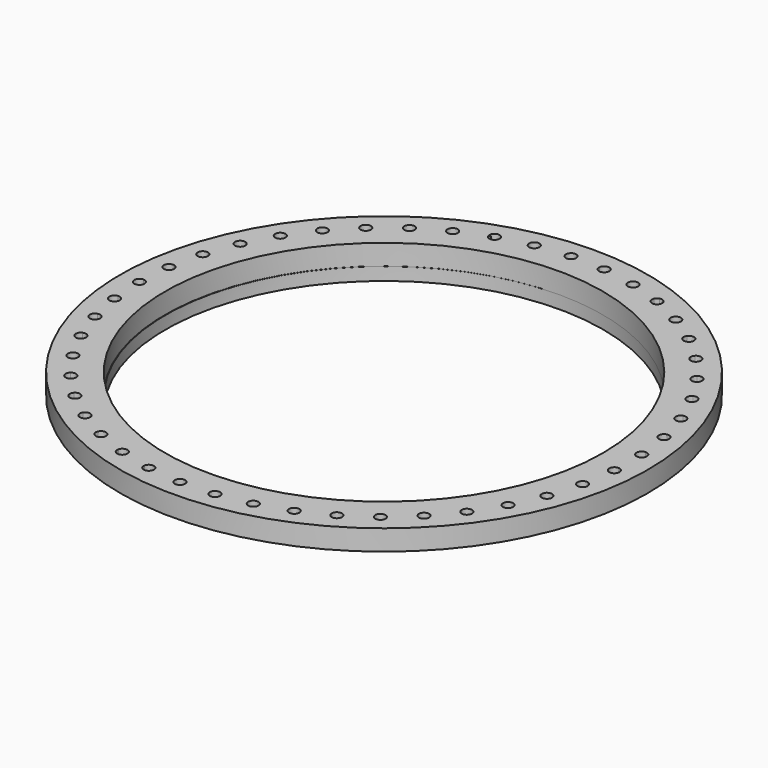
from build123d import *

# Parameters (mm, degrees)
F0_R     = 425
F1_DEPTH = 40
F2_W     = 25
F2_H     = 25


with BuildPart() as f1:
    # F0 (on Top) → F1 (new body)
    with BuildSketch(Plane.XY):
        with BuildLine():
            Line((-244.5690632574, 450), (-249.1284285052, 450))
            ThreePointArc((-249.1284285052, 450), (-248.9712322177, 449.2740321009), (-248.7605824707, 448.5617352895))
            ThreePointArc((-248.7605824707, 448.5617352895), (-246.6665001226, 449.2857556611), (-244.5690632574, 450))
        make_face()
        with BuildLine():
            ThreePointArc((76.1273747434, 444.0605910089), (78.6749126814, 447.7783927009), (82.5961956316, 450))
            Line((82.5961956316, 450), (59.5690632575, 450))
            ThreePointArc((59.5690632575, 450), (67.8757166201, 447.1069553458), (76.1273747434, 444.0605910089))
        make_face()
        with BuildLine():
            Line((-249.1284285052, 450), (-337.7677108794, 450))
            ThreePointArc((-337.7677108794, 450), (-605, 0), (-337.7677108794, -450))
            Line((-337.7677108794, -450), (-249.1284285052, -450))
            ThreePointArc((-249.1284285052, -450), (-248.9712322177, -449.2740321009), (-248.7605824707, -448.5617352895))
            ThreePointArc((-248.7605824707, -448.5617352895), (-270.4381318726, -440.4123309192), (-291.6927078912, -431.2160306888))
            ThreePointArc((-291.6927078912, -431.2160306888), (-305.1100061927, -435.9151124551), (-309.6675928959, -422.4490934962))
            ThreePointArc((-309.6675928959, -422.4490934962), (-330, -411.3620667976), (-349.7678503255, -399.2971990747))
            ThreePointArc((-349.7678503255, -399.2971990747), (-363.7085581833, -402.0832226892), (-366.3476831499, -388.1139606268))
            ThreePointArc((-366.34768315, -388.1139606268), (-384.9392007797, -374.3051079632), (-402.835566691, -359.6065016745))
            ThreePointArc((-402.835566691, -359.6065016745), (-417.028344084, -360.4252403565), (-417.6976397486, -346.2246309868))
            ThreePointArc((-417.6976397486, -346.2246309868), (-434.1864051609, -329.962725968), (-449.8629542524, -312.9164727655))
            ThreePointArc((-449.8629542524, -312.9164727655), (-464.0315549127, -311.751990698), (-462.7179941963, -297.5964327294))
            ThreePointArc((-462.7179941963, -297.5964327294), (-476.7830723281, -279.1979948389), (-489.9346784035, -260.1358806514))
            ThreePointArc((-489.9346784035, -260.1358806514), (-503.8033266359, -257.0108431531), (-500.5324765038, -243.1758584198))
            ThreePointArc((-500.5324765038, -243.1758584198), (-511.900106608, -222.9989923233), (-522.2707886148, -202.2920395206))
            ThreePointArc((-522.2707886148, -202.2920395206), (-535.5695469567, -197.2672718918), (-530.4050707861, -184.0221426345))
            ThreePointArc((-530.4050707861, -184.0221426345), (-538.8539948733, -162.4595680797), (-546.2418992828, -140.5108139442))
            ThreePointArc((-546.2418992828, -140.5108139442), (-558.7119225301, -133.6841175712), (-551.7543409753, -121.2866451649))
            ThreePointArc((-551.7543409753, -121.2866451649), (-557.1201103486, -98.7580531384), (-561.3814400049, -75.9947052032))
            ThreePointArc((-561.3814400049, -75.9947052032), (-572.7800133397, -67.4989539656), (-564.1647478114, -56.1904411087))
            ThreePointArc((-564.1647478114, -56.1904411087), (-566.3429238734, -33.1343250285), (-567.3947368421, -9.999445968))
            ThreePointArc((-567.3947368421, -9.999445968), (-577.5, 0), (-567.3947368421, 9.999445968))
            ThreePointArc((-567.3947368421, 9.999445968), (-566.3429238734, 33.1343250285), (-564.1647478114, 56.1904411087))
            ThreePointArc((-564.1647478114, 56.1904411087), (-572.7800133397, 67.4989539656), (-561.3814400049, 75.9947052032))
            ThreePointArc((-561.3814400049, 75.9947052032), (-557.1201103486, 98.7580531384), (-551.7543409753, 121.2866451649))
            ThreePointArc((-551.7543409753, 121.2866451649), (-558.7119225301, 133.6841175712), (-546.2418992828, 140.5108139442))
            ThreePointArc((-546.2418992828, 140.5108139442), (-538.8539948733, 162.4595680797), (-530.4050707861, 184.0221426345))
            ThreePointArc((-530.4050707861, 184.0221426345), (-535.5695469567, 197.2672718918), (-522.2707886148, 202.2920395206))
            ThreePointArc((-522.2707886148, 202.2920395206), (-511.900106608, 222.9989923233), (-500.5324765038, 243.1758584198))
            ThreePointArc((-500.5324765038, 243.1758584198), (-503.8033266359, 257.0108431531), (-489.9346784035, 260.1358806514))
            ThreePointArc((-489.9346784035, 260.1358806514), (-476.7830723281, 279.1979948389), (-462.7179941963, 297.5964327294))
            ThreePointArc((-462.7179941963, 297.5964327294), (-464.0315549127, 311.751990698), (-449.8629542524, 312.9164727655))
            ThreePointArc((-449.8629542524, 312.9164727655), (-434.1864051609, 329.962725968), (-417.6976397486, 346.2246309868))
            ThreePointArc((-417.6976397486, 346.2246309868), (-417.028344084, 360.4252403565), (-402.835566691, 359.6065016745))
            ThreePointArc((-402.835566691, 359.6065016745), (-384.9392007797, 374.3051079632), (-366.34768315, 388.1139606268))
            ThreePointArc((-366.3476831499, 388.1139606268), (-363.7085581833, 402.0832226892), (-349.7678503255, 399.2971990747))
            ThreePointArc((-349.7678503255, 399.2971990747), (-330, 411.3620667976), (-309.6675928959, 422.4490934962))
            ThreePointArc((-309.6675928959, 422.4490934962), (-305.1100061927, 435.9151124551), (-291.6927078912, 431.2160306888))
            ThreePointArc((-291.6927078912, 431.2160306888), (-270.4381318726, 440.4123309192), (-248.7605824707, 448.5617352895))
            ThreePointArc((-248.7605824707, 448.5617352895), (-248.9712322177, 449.2740321009), (-249.1284285052, 450))
        make_face()
        with BuildLine():
            ThreePointArc((152.7677108794, 450), (-92.5, 512.5), (-337.7677108794, 450))
            Line((-337.7677108794, 450), (-249.1284285052, 450))
            ThreePointArc((-249.1284285052, 450), (-241.6587675583, 461.4655506183), (-229.7405059762, 454.7417327664))
            ThreePointArc((-229.7405059762, 454.7417327664), (-207.4129004098, 460.8904699811), (-184.8121375514, 465.9436331368))
            ThreePointArc((-184.8121375514, 465.9436331368), (-176.7193661685, 477.6317602109), (-165.1170737211, 469.4164042768))
            ThreePointArc((-165.1170737211, 469.4164042768), (-142.1510200521, 472.3979002999), (-119.0669418782, 474.2564681681))
            ThreePointArc((-119.0669418782, 474.2564681681), (-109.4262559007, 484.7045511043), (-99.0802327267, 474.9544194312))
            ThreePointArc((-99.0802327267, 474.9544194312), (-75.9227390663, 474.7106428341), (-52.8046509008, 473.3384405052))
            ThreePointArc((-52.8046509008, 473.3384405052), (-42.3781878116, 482.3868118905), (-32.8489799479, 472.3979002999))
            ThreePointArc((-32.8489799479, 472.3979002999), (-32.8655774816, 471.8219878093), (-32.9153149872, 471.2479870641))
            ThreePointArc((-32.9153149872, 471.2479870641), (-10.0171156082, 467.7836826808), (12.6850152592, 463.2074185124))
            ThreePointArc((12.6850152592, 463.2074185124), (23.5793369692, 470.8222082858), (32.4129004098, 460.8904699811))
            ThreePointArc((32.4129004098, 460.8904699811), (32.3318101849, 459.6195534323), (32.0898546351, 458.3692486653))
            ThreePointArc((32.089854635, 458.3692486653), (45.892739308, 454.3923961807), (59.5690632575, 450))
            Line((59.5690632575, 450), (82.5961956316, 450))
            ThreePointArc((82.5961956316, 450), (85.4381318726, 450.4123309192), (88.2800681135, 450))
            Line((88.2800681135, 450), (152.7677108794, 450))
        make_face()
        with BuildLine():
            Line((-249.1284285052, -450), (-337.7677108794, -450))
            ThreePointArc((-337.7677108794, -450), (-92.5, -512.5), (152.7677108794, -450))
            Line((152.7677108794, -450), (88.2800681135, -450))
            ThreePointArc((88.2800681135, -450), (85.4381318726, -450.4123309192), (82.5961956316, -450))
            Line((82.5961956316, -450), (59.5690632575, -450))
            ThreePointArc((59.5690632575, -450), (45.892739308, -454.3923961807), (32.089854635, -458.3692486653))
            ThreePointArc((32.0898546351, -458.3692486653), (32.3318101849, -459.6195534323), (32.4129004098, -460.8904699811))
            ThreePointArc((32.4129004098, -460.8904699811), (23.5793369692, -470.8222082858), (12.6850152592, -463.2074185124))
            ThreePointArc((12.6850152592, -463.2074185124), (-10.0171156082, -467.7836826808), (-32.9153149872, -471.2479870641))
            ThreePointArc((-32.9153149872, -471.2479870641), (-32.8655774816, -471.8219878093), (-32.8489799479, -472.3979002999))
            ThreePointArc((-32.8489799479, -472.3979002999), (-42.3781878116, -482.3868118905), (-52.8046509008, -473.3384405052))
            ThreePointArc((-52.8046509008, -473.3384405052), (-75.9227390663, -474.7106428341), (-99.0802327267, -474.9544194312))
            ThreePointArc((-99.0802327267, -474.9544194312), (-109.4262559007, -484.7045511043), (-119.0669418782, -474.2564681681))
            ThreePointArc((-119.0669418782, -474.2564681681), (-142.1510200521, -472.3979002999), (-165.1170737211, -469.4164042768))
            ThreePointArc((-165.1170737211, -469.4164042768), (-176.7193661685, -477.6317602109), (-184.8121375514, -465.9436331368))
            ThreePointArc((-184.8121375514, -465.9436331368), (-207.4129004098, -460.8904699811), (-229.7405059762, -454.7417327664))
            ThreePointArc((-229.7405059762, -454.7417327664), (-241.6587675583, -461.4655506183), (-249.1284285052, -450))
        make_face()
        with BuildLine():
            ThreePointArc((420, 0), (348.1563013425, 261.6835380515), (152.7677108794, 450))
            Line((152.7677108794, 450), (88.2800681135, 450))
            ThreePointArc((88.2800681135, 450), (93.4512262315, 446.3948319677), (95.4381318726, 440.4123309192))
            ThreePointArc((95.4381318726, 440.4123309192), (95.2442250251, 438.45260209), (94.6700244557, 436.5688742286))
            ThreePointArc((94.6700244557, 436.5688742286), (115.7262947248, 426.9271719921), (136.287594189, 416.2706292128))
            ThreePointArc((136.287594189, 416.2706292128), (147.5373156967, 421.0348135148), (155, 411.3620667976))
            ThreePointArc((155, 411.3620667976), (154.6455022298, 408.7230732898), (153.6071426531, 406.2711832448))
            ThreePointArc((153.6071426532, 406.2711832448), (173.1166291486, 393.7928469636), (191.9947233557, 380.3784331199))
            ThreePointArc((191.9947233557, 380.3784331199), (203.1450724053, 383.7772981598), (209.9392007797, 374.3051079632))
            ThreePointArc((209.9392007797, 374.3051079632), (209.3771201695, 370.9997066879), (207.7540652615, 368.0658858057))
            ThreePointArc((207.7540652615, 368.0658858057), (225.3370380205, 352.9937921018), (242.1644863402, 337.0826035004))
            ThreePointArc((242.1644863402, 337.0826035004), (253.0452140311, 339.1882120855), (259.1864051609, 329.962725968))
            ThreePointArc((259.1864051609, 329.962725968), (258.3707611161, 326.007020508), (256.0568840235, 322.6966045681))
            ThreePointArc((256.0568840235, 322.6966045681), (271.3711104815, 305.3241146011), (285.8203857734, 287.2258444296))
            ThreePointArc((285.8203857734, 287.2258444296), (296.276018714, 288.1318312362), (301.7830723281, 279.1979948389))
            ThreePointArc((301.7830723281, 279.1979948389), (300.6691195898, 274.6112569935), (297.5754395156, 271.0464009846))
            ThreePointArc((297.5754395156, 271.0464009846), (310.3228456743, 251.7116505108), (322.1127092305, 231.7785610115))
            ThreePointArc((322.1127092305, 231.7785610115), (332.0053013264, 231.5976542475), (336.900106608, 222.9989923233))
            ThreePointArc((336.900106608, 222.9989923233), (335.4445532471, 217.8035682182), (331.5016202817, 214.1205875167))
            ThreePointArc((331.5016202817, 214.1205875167), (341.4340923802, 193.199905461), (350.3350679174, 171.8199715475))
            ThreePointArc((350.3350679174, 171.8199715474), (359.5465659287, 170.6811637143), (363.8539948733, 162.4595680797))
            ThreePointArc((363.8539948733, 162.4595680797), (362.0152132047, 156.680769299), (357.1750918038, 153.0271603712))
            ThreePointArc((357.1750918038, 153.0271603712), (364.0993055707, 130.9277440131), (369.9381457248, 108.5171017796))
            ThreePointArc((369.9381457248, 108.5171017796), (378.372324107, 106.562527696), (382.1201103486, 98.7580531384))
            ThreePointArc((382.1201103486, 98.7580531384), (379.8583397368, 92.4240334089), (374.0961491617, 88.955233615))
            ThreePointArc((374.0961491617, 88.955233615), (377.8773326522, 66.107222956), (380.5403910412, 43.102070062))
            ThreePointArc((380.5403910412, 43.102070062), (388.1243201779, 40.4836558933), (391.3429238734, 33.1343250285))
            ThreePointArc((391.3429238734, 33.1343250285), (388.6204644429, 26.2759430575), (381.9354432214, 23.1518944215))
            ThreePointArc((381.9354432214, 23.1518944215), (382.3588398304, 11.5793883653), (382.5, 0))
            ThreePointArc((382.5, 0), (382.3588398304, -11.5793883653), (381.9354432214, -23.1518944215))
            ThreePointArc((381.9354432214, -23.1518944215), (388.6204644429, -26.2759430575), (391.3429238734, -33.1343250285))
            ThreePointArc((391.3429238734, -33.1343250285), (388.1243201779, -40.4836558933), (380.5403910412, -43.102070062))
            ThreePointArc((380.5403910412, -43.102070062), (377.8773326522, -66.107222956), (374.0961491617, -88.955233615))
            ThreePointArc((374.0961491617, -88.955233615), (379.8583397368, -92.4240334089), (382.1201103486, -98.7580531384))
            ThreePointArc((382.1201103486, -98.7580531384), (378.372324107, -106.562527696), (369.9381457248, -108.5171017796))
            ThreePointArc((369.9381457248, -108.5171017796), (364.0993055707, -130.9277440131), (357.1750918038, -153.0271603712))
            ThreePointArc((357.1750918038, -153.0271603712), (362.0152132047, -156.680769299), (363.8539948733, -162.4595680797))
            ThreePointArc((363.8539948733, -162.4595680797), (359.5465659287, -170.6811637143), (350.3350679174, -171.8199715474))
            ThreePointArc((350.3350679174, -171.8199715474), (341.4340923802, -193.199905461), (331.5016202817, -214.1205875167))
            ThreePointArc((331.5016202817, -214.1205875167), (335.4445532471, -217.8035682182), (336.900106608, -222.9989923233))
            ThreePointArc((336.900106608, -222.9989923233), (332.0053013264, -231.5976542475), (322.1127092305, -231.7785610115))
            ThreePointArc((322.1127092305, -231.7785610115), (310.3228456743, -251.7116505108), (297.5754395156, -271.0464009846))
            ThreePointArc((297.5754395156, -271.0464009846), (300.6691195898, -274.6112569935), (301.7830723281, -279.1979948389))
            ThreePointArc((301.7830723281, -279.1979948389), (296.276018714, -288.1318312362), (285.8203857734, -287.2258444296))
            ThreePointArc((285.8203857734, -287.2258444296), (271.3711104815, -305.3241146011), (256.0568840235, -322.6966045681))
            ThreePointArc((256.0568840235, -322.6966045681), (258.3707611161, -326.007020508), (259.1864051609, -329.962725968))
            ThreePointArc((259.1864051609, -329.962725968), (253.0452140311, -339.1882120855), (242.1644863402, -337.0826035004))
            ThreePointArc((242.1644863402, -337.0826035004), (225.3370380205, -352.9937921018), (207.7540652615, -368.0658858057))
            ThreePointArc((207.7540652615, -368.0658858057), (209.3771201695, -370.9997066879), (209.9392007797, -374.3051079632))
            ThreePointArc((209.9392007797, -374.3051079632), (203.1450724053, -383.7772981598), (191.9947233557, -380.3784331199))
            ThreePointArc((191.9947233557, -380.3784331199), (173.1166291486, -393.7928469636), (153.6071426532, -406.2711832448))
            ThreePointArc((153.6071426531, -406.2711832448), (154.6455022298, -408.7230732898), (155, -411.3620667976))
            ThreePointArc((155, -411.3620667976), (147.5373156967, -421.0348135148), (136.287594189, -416.2706292128))
            ThreePointArc((136.287594189, -416.2706292128), (115.7262947248, -426.9271719921), (94.6700244557, -436.5688742286))
            ThreePointArc((94.6700244557, -436.5688742286), (95.2442250251, -438.45260209), (95.4381318726, -440.4123309192))
            ThreePointArc((95.4381318726, -440.4123309192), (93.4512262315, -446.3948319677), (88.2800681135, -450))
            Line((88.2800681135, -450), (152.7677108794, -450))
            ThreePointArc((152.7677108794, -450), (348.1563013425, -261.6835380515), (420, 0))
        make_face()
        with BuildLine():
            ThreePointArc((-229.437716151, 450), (-238.5407927173, 441.7794322434), (-248.7605824707, 448.5617352895))
            ThreePointArc((-248.7605824707, 448.5617352895), (-270.4381318726, 440.4123309192), (-291.6927078912, 431.2160306888))
            ThreePointArc((-291.6927078912, 431.2160306888), (-290.9708893428, 429.1253680325), (-290.7262947248, 426.9271719921))
            ThreePointArc((-290.7262947248, 426.9271719921), (-298.4255319938, 417.1954459964), (-309.6675928959, 422.4490934962))
            ThreePointArc((-309.6675928959, 422.4490934962), (-330, 411.3620667976), (-349.7678503255, 399.2971990747))
            ThreePointArc((-349.7678503255, 399.2971990747), (-348.5383258481, 396.6661909884), (-348.1166291486, 393.7928469636))
            ThreePointArc((-348.1166291486, 393.7928469636), (-355.1426200711, 384.2453200584), (-366.3476831499, 388.1139606268))
            ThreePointArc((-366.34768315, 388.1139606268), (-384.9392007797, 374.3051079632), (-402.835566691, 359.6065016745))
            ThreePointArc((-402.835566691, 359.6065016745), (-400.9825013325, 356.5282854675), (-400.3370380205, 352.9937921018))
            ThreePointArc((-400.3370380205, 352.9937921018), (-406.7042716697, 343.6769788783), (-417.6976397486, 346.2246309868))
            ThreePointArc((-417.6976397486, 346.2246309868), (-434.1864051609, 329.962725968), (-449.8629542524, 312.9164727655))
            ThreePointArc((-449.8629542524, 312.9164727655), (-447.2859147684, 309.5025376116), (-446.3711104815, 305.3241146011))
            ThreePointArc((-446.3711104815, 305.3241146011), (-452.09728533, 296.283405637), (-462.7179941963, 297.5964327294))
            ThreePointArc((-462.7179941963, 297.5964327294), (-476.7830723281, 279.1979948389), (-489.9346784035, 260.1358806514))
            ThreePointArc((-489.9346784035, 260.1358806514), (-486.5512530963, 256.513646309), (-485.3228456743, 251.7116505108))
            ThreePointArc((-485.3228456743, 251.7116505108), (-490.4287833685, 242.9910912313), (-500.5324765038, 243.1758584198))
            ThreePointArc((-500.5324765038, 243.1758584198), (-511.900106608, 222.9989923233), (-522.2707886148, 202.2920395206))
            ThreePointArc((-522.2707886148, 202.2920395206), (-518.0188372547, 198.6020792062), (-516.4340923802, 193.199905461))
            ThreePointArc((-516.4340923802, 193.199905461), (-520.9436362999, 184.8419815543), (-530.4050707861, 184.0221426345))
            ThreePointArc((-530.4050707861, 184.0221426345), (-538.8539948733, 162.4595680797), (-546.2418992828, 140.5108139442))
            ThreePointArc((-546.2418992828, 140.5108139442), (-541.0813861748, 136.9037768577), (-539.0993055707, 130.9277440131))
            ThreePointArc((-539.0993055707, 130.9277440131), (-543.0392046658, 122.9731744444), (-551.7543409753, 121.2866451649))
            ThreePointArc((-551.7543409753, 121.2866451649), (-557.1201103486, 98.7580531384), (-561.3814400049, 75.9947052032))
            ThreePointArc((-561.3814400049, 75.9947052032), (-555.2958114832, 72.6280002688), (-552.8773326522, 66.107222956))
            ThreePointArc((-552.8773326522, 66.107222956), (-556.2771111253, 58.5947615887), (-564.1647478114, 56.1904411087))
            ThreePointArc((-564.1647478114, 56.1904411087), (-566.3429238734, 33.1343250285), (-567.3947368421, 9.999445968))
            ThreePointArc((-567.3947368421, 9.999445968), (-560.3918134669, 7.0337532094), (-557.5, 0))
            ThreePointArc((-557.5, 0), (-560.3918134669, -7.0337532094), (-567.3947368421, -9.999445968))
            ThreePointArc((-567.3947368421, -9.999445968), (-566.3429238734, -33.1343250285), (-564.1647478114, -56.1904411087))
            ThreePointArc((-564.1647478114, -56.1904411087), (-556.2771111253, -58.5947615887), (-552.8773326522, -66.107222956))
            ThreePointArc((-552.8773326522, -66.107222956), (-555.2958114832, -72.6280002688), (-561.3814400049, -75.9947052032))
            ThreePointArc((-561.3814400049, -75.9947052032), (-557.1201103486, -98.7580531384), (-551.7543409753, -121.2866451649))
            ThreePointArc((-551.7543409753, -121.2866451649), (-543.0392046658, -122.9731744444), (-539.0993055707, -130.9277440131))
            ThreePointArc((-539.0993055707, -130.9277440131), (-541.0813861748, -136.9037768577), (-546.2418992828, -140.5108139442))
            ThreePointArc((-546.2418992828, -140.5108139442), (-538.8539948733, -162.4595680797), (-530.4050707861, -184.0221426345))
            ThreePointArc((-530.4050707861, -184.0221426345), (-520.9436362999, -184.8419815543), (-516.4340923802, -193.199905461))
            ThreePointArc((-516.4340923802, -193.199905461), (-518.0188372547, -198.6020792062), (-522.2707886148, -202.2920395206))
            ThreePointArc((-522.2707886148, -202.2920395206), (-511.900106608, -222.9989923233), (-500.5324765038, -243.1758584198))
            ThreePointArc((-500.5324765038, -243.1758584198), (-490.4287833685, -242.9910912313), (-485.3228456743, -251.7116505108))
            ThreePointArc((-485.3228456743, -251.7116505108), (-486.5512530963, -256.513646309), (-489.9346784035, -260.1358806514))
            ThreePointArc((-489.9346784035, -260.1358806514), (-476.7830723281, -279.1979948389), (-462.7179941963, -297.5964327294))
            ThreePointArc((-462.7179941963, -297.5964327294), (-452.09728533, -296.283405637), (-446.3711104815, -305.3241146011))
            ThreePointArc((-446.3711104815, -305.3241146011), (-447.2859147684, -309.5025376116), (-449.8629542524, -312.9164727655))
            ThreePointArc((-449.8629542524, -312.9164727655), (-434.1864051609, -329.962725968), (-417.6976397486, -346.2246309868))
            ThreePointArc((-417.6976397486, -346.2246309868), (-406.7042716697, -343.6769788783), (-400.3370380205, -352.9937921018))
            ThreePointArc((-400.3370380205, -352.9937921018), (-400.9825013325, -356.5282854675), (-402.835566691, -359.6065016745))
            ThreePointArc((-402.835566691, -359.6065016745), (-384.9392007797, -374.3051079632), (-366.34768315, -388.1139606268))
            ThreePointArc((-366.3476831499, -388.1139606268), (-355.1426200711, -384.2453200584), (-348.1166291486, -393.7928469636))
            ThreePointArc((-348.1166291486, -393.7928469636), (-348.5383258481, -396.6661909884), (-349.7678503255, -399.2971990747))
            ThreePointArc((-349.7678503255, -399.2971990747), (-330, -411.3620667976), (-309.6675928959, -422.4490934962))
            ThreePointArc((-309.6675928959, -422.4490934962), (-298.4255319938, -417.1954459964), (-290.7262947248, -426.9271719921))
            ThreePointArc((-290.7262947248, -426.9271719921), (-290.9708893428, -429.1253680325), (-291.6927078912, -431.2160306888))
            ThreePointArc((-291.6927078912, -431.2160306888), (-270.4381318726, -440.4123309192), (-248.7605824707, -448.5617352895))
            ThreePointArc((-248.7605824707, -448.5617352895), (-238.5407927173, -441.7794322434), (-229.437716151, -450))
            Line((-229.437716151, -450), (59.5690632575, -450))
            ThreePointArc((59.5690632575, -450), (67.8757166201, -447.1069553458), (76.1273747434, -444.0605910089))
            ThreePointArc((76.1273747434, -444.0605910089), (81.6920659384, -431.1404923736), (94.6700244557, -436.5688742286))
            ThreePointArc((94.6700244557, -436.5688742286), (115.7262947248, -426.9271719921), (136.287594189, -416.2706292128))
            ThreePointArc((136.287594189, -416.2706292128), (140, -402.7018127598), (153.6071426531, -406.2711832448))
            ThreePointArc((153.6071426532, -406.2711832448), (173.1166291486, -393.7928469636), (191.9947233557, -380.3784331199))
            ThreePointArc((191.9947233557, -380.3784331199), (193.7825860264, -366.4250004271), (207.7540652615, -368.0658858057))
            ThreePointArc((207.7540652615, -368.0658858057), (225.3370380205, -352.9937921018), (242.1644863402, -337.0826035004))
            ThreePointArc((242.1644863402, -337.0826035004), (241.9930071575, -323.0161422634), (256.0568840235, -322.6966045681))
            ThreePointArc((256.0568840235, -322.6966045681), (271.3711104815, -305.3241146011), (285.8203857734, -287.2258444296))
            ThreePointArc((285.8203857734, -287.2258444296), (283.6929023844, -273.320142316), (297.5754395156, -271.0464009846))
            ThreePointArc((297.5754395156, -271.0464009846), (310.3228456743, -251.7116505108), (322.1127092305, -231.7785610115))
            ThreePointArc((322.1127092305, -231.7785610115), (318.0706306794, -218.3042766954), (331.5016202817, -214.1205875167))
            ThreePointArc((331.5016202817, -214.1205875167), (341.4340923802, -193.199905461), (350.3350679174, -171.8199715474))
            ThreePointArc((350.3350679174, -171.8199715474), (344.4570686654, -159.0393666464), (357.1750918038, -153.0271603712))
            ThreePointArc((357.1750918038, -153.0271603712), (364.0993055707, -130.9277440131), (369.9381457248, -108.5171017796))
            ThreePointArc((369.9381457248, -108.5171017796), (362.3386343412, -96.6789362303), (374.0961491617, -88.955233615))
            ThreePointArc((374.0961491617, -88.955233615), (377.8773326522, -66.107222956), (380.5403910412, -43.102070062))
            ThreePointArc((380.5403910412, -43.102070062), (371.3672833708, -32.436760291), (381.9354432214, -23.1518944215))
            ThreePointArc((381.9354432214, -23.1518944215), (382.3588398304, -11.5793883653), (382.5, 0))
            ThreePointArc((382.5, 0), (382.3588398304, 11.5793883653), (381.9354432214, 23.1518944215))
            ThreePointArc((381.9354432214, 23.1518944215), (371.3672833708, 32.436760291), (380.5403910412, 43.102070062))
            ThreePointArc((380.5403910412, 43.102070062), (377.8773326522, 66.107222956), (374.0961491617, 88.955233615))
            ThreePointArc((374.0961491617, 88.955233615), (362.3386343412, 96.6789362303), (369.9381457248, 108.5171017796))
            ThreePointArc((369.9381457248, 108.5171017796), (364.0993055707, 130.9277440131), (357.1750918038, 153.0271603712))
            ThreePointArc((357.1750918038, 153.0271603712), (344.4570686654, 159.0393666464), (350.3350679174, 171.8199715474))
            ThreePointArc((350.3350679174, 171.8199715475), (341.4340923802, 193.199905461), (331.5016202817, 214.1205875167))
            ThreePointArc((331.5016202817, 214.1205875167), (318.0706306794, 218.3042766954), (322.1127092305, 231.7785610115))
            ThreePointArc((322.1127092305, 231.7785610115), (310.3228456743, 251.7116505108), (297.5754395156, 271.0464009846))
            ThreePointArc((297.5754395156, 271.0464009846), (283.6929023844, 273.320142316), (285.8203857734, 287.2258444296))
            ThreePointArc((285.8203857734, 287.2258444296), (271.3711104815, 305.3241146011), (256.0568840235, 322.6966045681))
            ThreePointArc((256.0568840235, 322.6966045681), (241.9930071575, 323.0161422634), (242.1644863402, 337.0826035004))
            ThreePointArc((242.1644863402, 337.0826035004), (225.3370380205, 352.9937921018), (207.7540652615, 368.0658858057))
            ThreePointArc((207.7540652615, 368.0658858057), (193.7825860264, 366.4250004271), (191.9947233557, 380.3784331199))
            ThreePointArc((191.9947233557, 380.3784331199), (173.1166291486, 393.7928469636), (153.6071426532, 406.2711832448))
            ThreePointArc((153.6071426531, 406.2711832448), (140, 402.7018127598), (136.287594189, 416.2706292128))
            ThreePointArc((136.287594189, 416.2706292128), (115.7262947248, 426.9271719921), (94.6700244557, 436.5688742286))
            ThreePointArc((94.6700244557, 436.5688742286), (81.6920659384, 431.1404923736), (76.1273747434, 444.0605910089))
            ThreePointArc((76.1273747434, 444.0605910089), (67.8757166201, 447.1069553458), (59.5690632575, 450))
            Line((59.5690632575, 450), (-229.437716151, 450))
        make_face()
        with Locations((-92.5, 0)):
            Circle(F0_R, mode=Mode.SUBTRACT)
        with BuildLine():
            ThreePointArc((-184.8121375514, 465.9436331368), (-207.4129004098, 460.8904699811), (-229.7405059762, 454.7417327664))
            ThreePointArc((-229.7405059762, 454.7417327664), (-229.3980922189, 453.2641839061), (-229.2830723281, 451.7518452402))
            ThreePointArc((-229.2830723281, 451.7518452402), (-229.3218083076, 450.8725164539), (-229.437716151, 450))
            Line((-229.437716151, 450), (59.5690632575, 450))
            ThreePointArc((59.5690632575, 450), (45.892739308, 454.3923961807), (32.089854635, 458.3692486653))
            ThreePointArc((32.0898546351, 458.3692486653), (19.9936814538, 451.1875127183), (12.6850152592, 463.2074185124))
            ThreePointArc((12.6850152592, 463.2074185124), (-10.0171156082, 467.7836826808), (-32.9153149872, 471.2479870641))
            ThreePointArc((-32.9153149872, 471.2479870641), (-43.8942645805, 462.4526813462), (-52.8046509008, 473.3384405052))
            ThreePointArc((-52.8046509008, 473.3384405052), (-75.9227390663, 474.7106428341), (-99.0802327267, 474.9544194312))
            ThreePointArc((-99.0802327267, 474.9544194312), (-99.0780039095, 474.8325401893), (-99.0772609337, 474.7106428341))
            ThreePointArc((-99.0772609337, 474.7106428341), (-108.8501149948, 464.7132229308), (-119.0669418782, 474.2564681681))
            ThreePointArc((-119.0669418782, 474.2564681681), (-142.1510200521, 472.3979002999), (-165.1170737211, 469.4164042768))
            ThreePointArc((-165.1170737211, 469.4164042768), (-165.0164881849, 468.6027960103), (-164.9828843918, 467.7836826808))
            ThreePointArc((-164.9828843918, 467.7836826808), (-174.05890701, 457.8264608897), (-184.8121375514, 465.9436331368))
        make_face()
        with BuildLine():
            ThreePointArc((-229.2830723281, -451.7518452402), (-229.3980922189, -453.2641839061), (-229.7405059762, -454.7417327664))
            ThreePointArc((-229.7405059762, -454.7417327664), (-207.4129004098, -460.8904699811), (-184.8121375514, -465.9436331368))
            ThreePointArc((-184.8121375514, -465.9436331368), (-174.05890701, -457.8264608897), (-164.9828843918, -467.7836826808))
            ThreePointArc((-164.9828843918, -467.7836826808), (-165.0164881849, -468.6027960103), (-165.1170737211, -469.4164042768))
            ThreePointArc((-165.1170737211, -469.4164042768), (-142.1510200521, -472.3979002999), (-119.0669418782, -474.2564681681))
            ThreePointArc((-119.0669418782, -474.2564681681), (-108.8501149948, -464.7132229308), (-99.0772609337, -474.7106428341))
            ThreePointArc((-99.0772609337, -474.7106428341), (-99.0780039095, -474.8325401893), (-99.0802327267, -474.9544194312))
            ThreePointArc((-99.0802327267, -474.9544194312), (-75.9227390663, -474.7106428341), (-52.8046509008, -473.3384405052))
            ThreePointArc((-52.8046509008, -473.3384405052), (-43.8942645805, -462.4526813462), (-32.9153149872, -471.2479870641))
            ThreePointArc((-32.9153149872, -471.2479870641), (-10.0171156082, -467.7836826808), (12.6850152592, -463.2074185124))
            ThreePointArc((12.6850152592, -463.2074185124), (19.9936814538, -451.1875127183), (32.0898546351, -458.3692486653))
            ThreePointArc((32.089854635, -458.3692486653), (45.892739308, -454.3923961807), (59.5690632575, -450))
            Line((59.5690632575, -450), (-229.437716151, -450))
            ThreePointArc((-229.437716151, -450), (-229.3218083076, -450.8725164539), (-229.2830723281, -451.7518452402))
        make_face()
        with BuildLine():
            Line((59.5690632575, -450), (82.5961956316, -450))
            ThreePointArc((82.5961956316, -450), (78.6749126814, -447.7783927009), (76.1273747434, -444.0605910089))
            ThreePointArc((76.1273747434, -444.0605910089), (67.8757166201, -447.1069553458), (59.5690632575, -450))
        make_face()
    extrude(amount=F1_DEPTH)

    # F2 (on Front) → F3 (revolve)
    with BuildSketch(Plane.XZ):
        with Locations((345.7091450691, -12.5)):
            Rectangle(F2_W, F2_H)
    revolve(axis=Axis((-91.7908549309, 0, 52.410453558), (0, 0, 1)))


solid = f1.part
